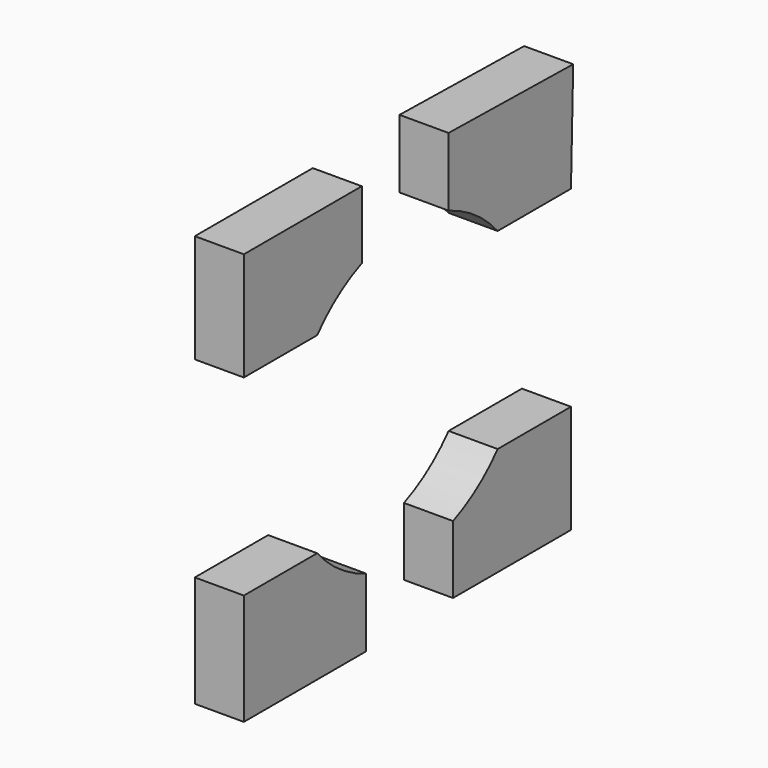
from build123d import *

# Parameters (mm, degrees)
F1_DEPTH = 5.3


with BuildPart() as f1:
    # F0 (on Right) → F1 (new body)
    with BuildSketch(Plane.YZ):
        with BuildLine():
            ThreePointArc((6.564778, 14.86869), (10.176178, 12.976507), (13.192209, 10.233128))
            Line((13.192209, 10.233128), (23.096268, 10.233128))
            Line((23.096268, 10.233128), (23.396839, 21.955458))
            Line((23.396839, 21.955458), (6.564778, 22.256029))
            Line((6.564778, 22.256029), (6.564778, 14.86869))
        make_face()
        with BuildLine():
            ThreePointArc((-11.183836, 10.233128), (-8.430641, 12.788688), (-5.15755, 14.632013))
            Line((-5.15755, 14.632013), (-5.15755, 21.955458))
            Line((-5.15755, 21.955458), (-21.087895, 21.955458))
            Line((-21.087895, 21.955458), (-21.087895, 10.233128))
            Line((-21.087895, 10.233128), (-11.183836, 10.233128))
        make_face()
        with BuildLine():
            Line((23.096268, -10.506376), (13.192209, -10.506376))
            ThreePointArc((13.192209, -10.506376), (10.439013, -13.061935), (7.165923, -14.905261))
            Line((7.165923, -14.905261), (7.165923, -22.228706))
            Line((7.165923, -22.228706), (23.096268, -22.228706))
            Line((23.096268, -22.228706), (23.096268, -10.506376))
        make_face()
        with BuildLine():
            Line((-4.556405, -22.529277), (-4.556405, -15.141938))
            ThreePointArc((-4.556405, -15.141938), (-8.167805, -13.249755), (-11.183836, -10.506376))
            Line((-11.183836, -10.506376), (-21.087895, -10.506376))
            Line((-21.087895, -10.506376), (-21.087895, -22.529277))
            Line((-21.087895, -22.529277), (-4.556405, -22.529277))
        make_face()
    extrude(amount=F1_DEPTH)


solid = f1.part
